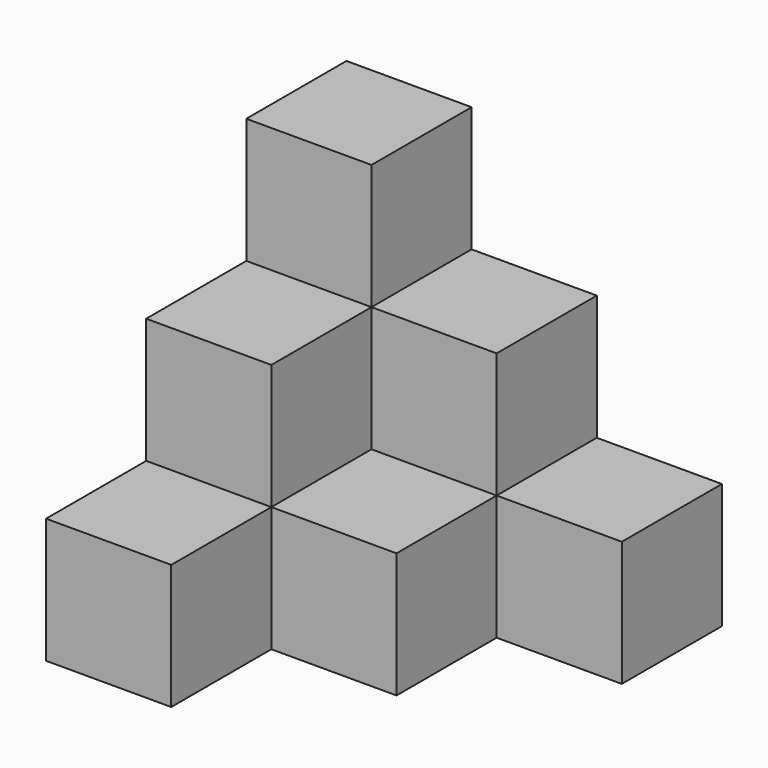
from build123d import *

# Parameters (mm, degrees)
BOX_W        = 10
BOX_H        = 10
BOX_DEPTH    = 30
BOX001_W     = 10
BOX001_H     = 10
BOX001_DEPTH = 20
BOX002_W     = 10
BOX002_H     = 10
BOX002_DEPTH = 20
BOX003_W     = 10
BOX003_H     = 10
BOX003_DEPTH = 10
BOX004_W     = 10
BOX004_H     = 10
BOX004_DEPTH = 10
BOX005_W     = 10
BOX005_H     = 10
BOX005_DEPTH = 10


with BuildPart() as cube:
    # Box → Box (new body)
    with BuildSketch(Plane.XY):
        with Locations((5, 5)):
            Rectangle(BOX_W, BOX_H)
    extrude(amount=BOX_DEPTH)


with BuildPart() as cube001:
    # Box001 → Box001 (new body)
    with BuildSketch(Plane(origin=(10, 0, 0), x_dir=(1, 0, 0), z_dir=(0, 0, 1))):
        with Locations((5, 5)):
            Rectangle(BOX001_W, BOX001_H)
    extrude(amount=BOX001_DEPTH)


with BuildPart() as cube002:
    # Box002 → Box002 (new body)
    with BuildSketch(Plane(origin=(0, -10, 0), x_dir=(1, 0, 0), z_dir=(0, 0, 1))):
        with Locations((5, 5)):
            Rectangle(BOX002_W, BOX002_H)
    extrude(amount=BOX002_DEPTH)


with BuildPart() as cube003:
    # Box003 → Box003 (new body)
    with BuildSketch(Plane(origin=(10, -10, 0), x_dir=(1, 0, 0), z_dir=(0, 0, 1))):
        with Locations((5, 5)):
            Rectangle(BOX003_W, BOX003_H)
    extrude(amount=BOX003_DEPTH)


with BuildPart() as cube004:
    # Box004 → Box004 (new body)
    with BuildSketch(Plane(origin=(20, 0, 0), x_dir=(1, 0, 0), z_dir=(0, 0, 1))):
        with Locations((5, 5)):
            Rectangle(BOX004_W, BOX004_H)
    extrude(amount=BOX004_DEPTH)


with BuildPart() as cube005:
    # Box005 → Box005 (new body)
    with BuildSketch(Plane(origin=(0, -20, 0), x_dir=(1, 0, 0), z_dir=(0, 0, 1))):
        with Locations((5, 5)):
            Rectangle(BOX005_W, BOX005_H)
    extrude(amount=BOX005_DEPTH)


solid = Compound([cube.part, cube001.part, cube002.part, cube003.part, cube004.part, cube005.part])
